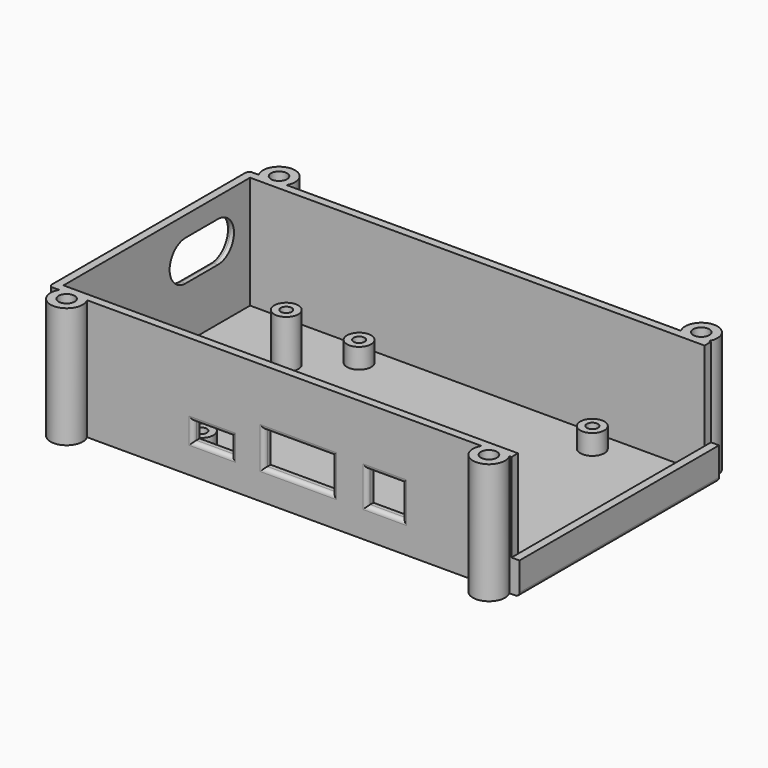
from build123d import *

# Parameters (mm, degrees)
SKETCH_W        = 115
SKETCH_H        = 62
PAD_DEPTH       = 30
SKETCH001_W     = 113
SKETCH001_H     = 58
POCKET_DEPTH    = 28
SKETCH002_R     = 3
PAD001_DEPTH    = 5
SKETCH003_R     = 1.375
SKETCH003_W     = 28
SKETCH003_H     = 20
POCKET001_DEPTH = 7
POCKET002_DEPTH = 2
SKETCH005_W     = 9.5
SKETCH005_H     = 4.4
SKETCH005_W_2   = 17
SKETCH005_H_2   = 8.3
SKETCH005_W_3   = 8.85
SKETCH005_H_3   = 8
POCKET003_DEPTH = 2
SKETCH006_W     = 62
SKETCH006_H     = 8
PAD002_DEPTH    = 2
POCKET004_DEPTH = 2
SKETCH010_R     = 3
PAD004_DEPTH    = 7
POCKET007_DEPTH = 2
SKETCH014_R     = 4
PAD005_DEPTH    = 30
SKETCH020_R     = 1.35
POCKET010_DEPTH = 7
SKETCH021_R     = 3
PAD006_DEPTH    = 7
SKETCH022_R     = 1.35
POCKET011_DEPTH = 7
SKETCH023_R     = 2
POCKET012_DEPTH = 30
SKETCH024_R     = 2
POCKET013_DEPTH = 30
SKETCH025_R     = 2
POCKET014_DEPTH = 30
SKETCH026_R     = 2
POCKET015_DEPTH = 30
POCKET016_DEPTH = 5
POCKET017_DEPTH = 5
POCKET018_DEPTH = 5
POCKET019_DEPTH = 5
FILLET_R        = 1


with BuildPart() as part:
    # Sketch → Pad (new body)
    with BuildSketch(Plane.XY):
        with Locations((27.5, 31)):
            Rectangle(SKETCH_W, SKETCH_H)
    extrude(amount=PAD_DEPTH)

    # Sketch001 (on Face6 of Pad) → Pocket (cut)
    with BuildSketch(Plane.XY.offset(30)):
        with Locations((28.5, 31)):
            Rectangle(SKETCH001_W, SKETCH001_H)
    extrude(amount=-POCKET_DEPTH, mode=Mode.SUBTRACT)

    # Sketch002 (on Face8 of Pocket) → Pad001 (join)
    with BuildSketch(Plane.XY.offset(2)):
        with Locations((3.5, 5.5)):
            Circle(SKETCH002_R)
        with Locations((61.5, 5.5)):
            Circle(SKETCH002_R)
        with Locations((3.5, 54.5)):
            Circle(SKETCH002_R)
        with Locations((61.5, 54.5)):
            Circle(SKETCH002_R)
        with Locations((-7, 45)):
            Circle(SKETCH002_R)
        with Locations((-24, 17)):
            Circle(SKETCH002_R)
    extrude(amount=PAD001_DEPTH)

    # Sketch003 (on Face21 of Pad001) → Pocket001 (cut)
    with BuildSketch(Plane.XY.offset(7)):
        with Locations((3.5, 54.5)):
            Circle(SKETCH003_R)
        with Locations((61.5, 54.5)):
            Circle(SKETCH003_R)
        with Locations((3.5, 5.5)):
            Circle(SKETCH003_R)
        with Locations((61.5, 5.5)):
            Circle(SKETCH003_R)
        with Locations((-7, 45)):
            Circle(SKETCH003_R)
        with Locations((-24, 17)):
            Circle(SKETCH003_R)
        with Locations((-6, 30)):
            Rectangle(SKETCH003_W, SKETCH003_H)
    extrude(amount=-POCKET001_DEPTH, mode=Mode.SUBTRACT)

    # Sketch004 (on Face4 of Pocket001) → Pocket002 (cut)
    with BuildSketch(Plane(origin=(0, 0, 0), x_dir=(1, 0, 0), z_dir=(0, 0, -1))):
        Polygon((4.75, -7.665064), (6, -5.5), (4.75, -3.334936), (2.25, -3.334936), (1, -5.5), (2.25, -7.665064), align=None)
        Polygon((62.75, -7.665064), (64, -5.5), (62.75, -3.334936), (60.25, -3.334936), (59, -5.5), (60.25, -7.665064), align=None)
        Polygon((62.75, -56.665064), (64, -54.5), (62.75, -52.334936), (60.25, -52.334936), (59, -54.5), (60.25, -56.665064), align=None)
        Polygon((4.75, -56.665064), (6, -54.5), (4.75, -52.334936), (2.25, -52.334936), (1, -54.5), (2.25, -56.665064), align=None)
        Polygon((-5.75, -47.165064), (-4.5, -45), (-5.75, -42.834936), (-8.25, -42.834936), (-9.5, -45), (-8.25, -47.165064), align=None)
        Polygon((-22.75, -19.165064), (-21.5, -17), (-22.75, -14.834936), (-25.25, -14.834936), (-26.5, -17), (-25.25, -19.165064), align=None)
    extrude(amount=-POCKET002_DEPTH, mode=Mode.SUBTRACT)

    # Sketch005 (on Face6 of Pocket002) → Pocket003 (cut)
    with BuildSketch(Plane.XZ):
        with Locations((10.6, 9.7)):
            Rectangle(SKETCH005_W, SKETCH005_H)
        with Locations((32, 11.65)):
            Rectangle(SKETCH005_W_2, SKETCH005_H_2)
        with Locations((53.5, 11.5)):
            Rectangle(SKETCH005_W_3, SKETCH005_H_3)
    extrude(amount=-POCKET003_DEPTH, mode=Mode.SUBTRACT)

    # Sketch006 (on Face3 of Pocket003) → Pad002 (join)
    with BuildSketch(Plane.YZ.offset(85)):
        with Locations((31, 4)):
            Rectangle(SKETCH006_W, SKETCH006_H)
    extrude(amount=PAD002_DEPTH)

    # Sketch007 (on Face2 of Pad002) → Pocket004 (cut)
    with BuildSketch(Plane(origin=(-30, 0, 0), x_dir=(0, -1, 0), z_dir=(-1, 0, 0))):
        with BuildLine():
            ThreePointArc((-50, 25), (-55, 20), (-50, 15))
            Line((-50, 15), (-40, 15))
            ThreePointArc((-40, 15), (-35, 20), (-40, 25))
            Line((-50, 25), (-40, 25))
        make_face()
    extrude(amount=-POCKET004_DEPTH, mode=Mode.SUBTRACT)

    # Sketch010 → Pad004 (join)
    with BuildSketch(Plane.XY.offset(7)):
        with Locations((-7, 45)):
            Circle(SKETCH010_R)
    extrude(amount=PAD004_DEPTH)

    # Sketch013 (on Face4 of Pocket001) → Pocket007 (cut)
    with BuildSketch(Plane(origin=(0, 0, 0), x_dir=(1, 0, 0), z_dir=(0, 0, -1))):
        Polygon((-22.75, -19.165064), (-21.5, -17), (-22.75, -14.834936), (-25.25, -14.834936), (-26.5, -17), (-25.25, -19.165064), align=None)
        Polygon((4.75, -7.665064), (6, -5.5), (4.75, -3.334936), (2.25, -3.334936), (1, -5.5), (2.25, -7.665064), align=None)
        Polygon((-5.75, -47.165064), (-4.5, -45), (-5.75, -42.834936), (-8.25, -42.834936), (-9.5, -45), (-8.25, -47.165064), align=None)
        Polygon((6, -54.5), (4.75, -52.334936), (2.25, -52.334936), (1, -54.5), (2.25, -56.665064), (4.75, -56.665064), align=None)
        Polygon((64, -54.5), (62.75, -52.334936), (60.25, -52.334936), (59, -54.5), (60.25, -56.665064), (62.75, -56.665064), align=None)
        Polygon((64, -5.5), (62.75, -3.334936), (60.25, -3.334936), (59, -5.5), (60.25, -7.665064), (62.75, -7.665064), align=None)
    extrude(amount=-POCKET007_DEPTH, mode=Mode.SUBTRACT)

    # Sketch014 (on Face5 of Pocket007) → Pad005 (join)
    with BuildSketch(Plane(origin=(0, 0, 0), x_dir=(1, 0, 0), z_dir=(0, 0, -1))):
        with Locations((-24, 2)):
            Circle(SKETCH014_R)
        with Locations((81, 2)):
            Circle(SKETCH014_R)
        with Locations((-24, -64)):
            Circle(SKETCH014_R)
        with Locations((81, -64)):
            Circle(SKETCH014_R)
    extrude(amount=-PAD005_DEPTH)

    # Sketch020 → Pocket010 (cut)
    with BuildSketch(Plane.XY.offset(14)):
        with Locations((-7, 45)):
            Circle(SKETCH020_R)
    extrude(amount=-POCKET010_DEPTH, mode=Mode.SUBTRACT)

    # Sketch021 (on Face130 of Pocket010) → Pad006 (join)
    with BuildSketch(Plane.XY.offset(7)):
        with Locations((-24, 17)):
            Circle(SKETCH021_R)
    extrude(amount=PAD006_DEPTH)

    # Sketch022 (on Face136 of Pad006) → Pocket011 (cut)
    with BuildSketch(Plane.XY.offset(14)):
        with Locations((-24, 17)):
            Circle(SKETCH022_R)
    extrude(amount=-POCKET011_DEPTH, mode=Mode.SUBTRACT)

    # Sketch023 (on Face57 of Pocket011) → Pocket012 (cut)
    with BuildSketch(Plane.XY.offset(30)):
        with Locations((-24, 64)):
            Circle(SKETCH023_R)
    extrude(amount=-POCKET012_DEPTH, mode=Mode.SUBTRACT)

    # Sketch024 (on Face115 of Pocket012) → Pocket013 (cut)
    with BuildSketch(Plane.XY.offset(30)):
        with Locations((81, 64)):
            Circle(SKETCH024_R)
    extrude(amount=-POCKET013_DEPTH, mode=Mode.SUBTRACT)

    # Sketch025 (on Face110 of Pocket013) → Pocket014 (cut)
    with BuildSketch(Plane.XY.offset(30)):
        with Locations((81, -2)):
            Circle(SKETCH025_R)
    extrude(amount=-POCKET014_DEPTH, mode=Mode.SUBTRACT)

    # Sketch026 (on Face106 of Pocket014) → Pocket015 (cut)
    with BuildSketch(Plane.XY.offset(30)):
        with Locations((-24, -2)):
            Circle(SKETCH026_R)
    extrude(amount=-POCKET015_DEPTH, mode=Mode.SUBTRACT)

    # Sketch027 (on Face69 of Pocket015) → Pocket016 (cut)
    with BuildSketch(Plane(origin=(0, 0, 0), x_dir=(1, 0, 0), z_dir=(0, 0, -1))):
        Polygon((-21.125, 2), (-22.5625, 4.489823), (-25.4375, 4.489823), (-26.875, 2), (-25.4375, -0.489823), (-22.5625, -0.489823), align=None)
    extrude(amount=-POCKET016_DEPTH, mode=Mode.SUBTRACT)

    # Sketch028 (on Face88 of Pocket016) → Pocket017 (cut)
    with BuildSketch(Plane(origin=(0, 0, 0), x_dir=(1, 0, 0), z_dir=(0, 0, -1))):
        Polygon((82.4375, 4.489823), (79.5625, 4.489823), (78.125, 2), (79.5625, -0.489823), (82.4375, -0.489823), (83.875, 2), align=None)
    extrude(amount=-POCKET017_DEPTH, mode=Mode.SUBTRACT)

    # Sketch029 (on Face101 of Pocket017) → Pocket018 (cut)
    with BuildSketch(Plane(origin=(0, 0, 0), x_dir=(1, 0, 0), z_dir=(0, 0, -1))):
        Polygon((82.4375, -66.489823), (83.875, -64), (82.4375, -61.510177), (79.5625, -61.510177), (78.125, -64), (79.5625, -66.489823), align=None)
    extrude(amount=-POCKET018_DEPTH, mode=Mode.SUBTRACT)

    # Sketch030 (on Face58 of Pocket018) → Pocket019 (cut)
    with BuildSketch(Plane(origin=(0, 0, 0), x_dir=(1, 0, 0), z_dir=(0, 0, -1))):
        Polygon((-22.5625, -66.489823), (-21.125, -64), (-22.5625, -61.510177), (-25.4375, -61.510177), (-26.875, -64), (-25.4375, -66.489823), align=None)
    extrude(amount=-POCKET019_DEPTH, mode=Mode.SUBTRACT)

    # Fillet
    fillet_edges = [part.edges().sort_by_distance(p)[0] for p in [
        (32, 0, 7.5),
        (32, 0, 15.8),
        (23.5, 0, 11.65),
        (40.5, 0, 11.65),
        (10.6, 0, 11.9),
        (10.6, 0, 7.5),
        (15.35, 0, 9.7),
        (5.85, 0, 9.7),
        (49.075, 0, 11.5),
        (53.5, 0, 7.5),
        (57.925, 0, 11.5),
        (53.5, 0, 15.5),
        (-30, 45, 15),
        (-30, 45, 25),
        (-30, 62, 15),
        (-30, 0, 15),
        (-30, 31, 0),
        (87, 31, 0),
        (-30, 35, 20),
        (-30, 55, 20),
    ]]
    fillet(fillet_edges, radius=FILLET_R)


solid = part.part
